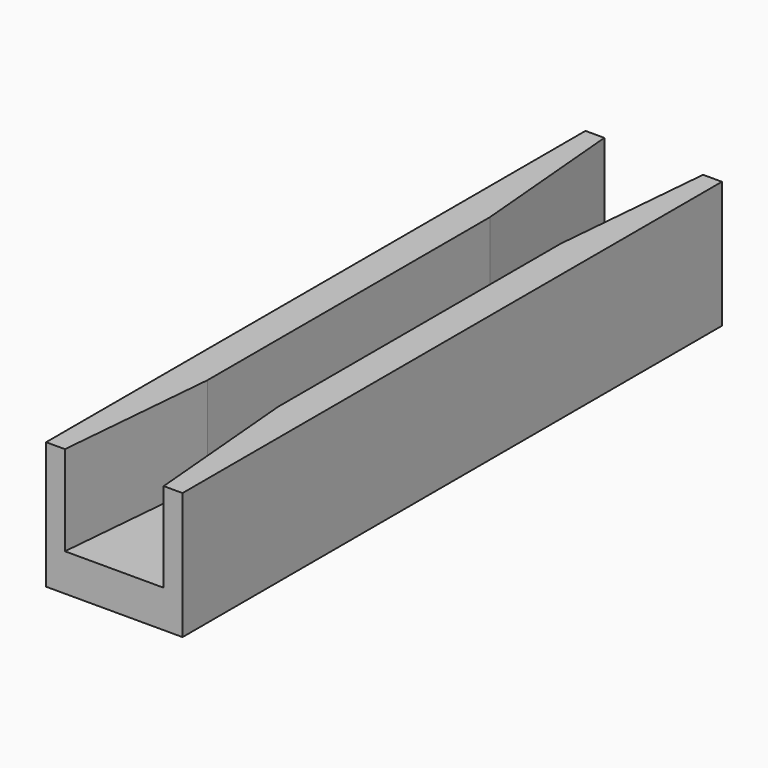
from build123d import *

# Parameters (mm, degrees)
F1_DEPTH   = 105
F2_SIZE2   = 4.3744331763
F2_SIZE    = 50
F2_2_SIZE2 = 4.3744331763
F2_2_SIZE  = 50
F3_SIZE2   = 4.3744331763
F3_SIZE    = 50


with BuildPart() as f1:
    # F0 (on Front) → F1 (new body, symmetric)
    with BuildSketch(Plane.XZ):
        Polygon((-11, 28), (-21.25, 28), (-21.25, -11.6291716302), (21.25, -11.6291716302), (21.25, 27.8708283698), (11, 27.8708283698), (11, 0), (-11, 0), align=None)
        Polygon((-11, 28), (-21.25, 28), (-21.25, -11.6291716302), (21.25, -11.6291716302), (21.25, 27.8708283698), (11, 27.8708283698), (11, 0), (-11, 0), align=None)
    extrude(amount=F1_DEPTH, both=True)

    # F2
    f2_edges = [f1.edges().sort_by_distance(p)[0] for p in [
        (-11, -105, 14),
        (-11, 105, 14),
    ]]
    f2_side = f1.faces().sort_by_distance((-11, 0, 14))[0]
    chamfer(f2_edges, length=F2_SIZE, length2=F2_SIZE2, reference=f2_side)

    # F2#2
    f2_2_edges = [f1.edges().sort_by_distance(p)[0] for p in [
        (11, -105, 13.935414),
    ]]
    f2_2_side = f1.faces().sort_by_distance((11, 0, 13.935414))[0]
    chamfer(f2_2_edges, length=F2_2_SIZE, length2=F2_2_SIZE2, reference=f2_2_side)

    # F3
    f3_edges = [f1.edges().sort_by_distance(p)[0] for p in [
        (11, 105, 13.935414),
    ]]
    f3_side = f1.faces().sort_by_distance((11, 25, 13.935414))[0]
    chamfer(f3_edges, length=F3_SIZE, length2=F3_SIZE2, reference=f3_side)


solid = f1.part
